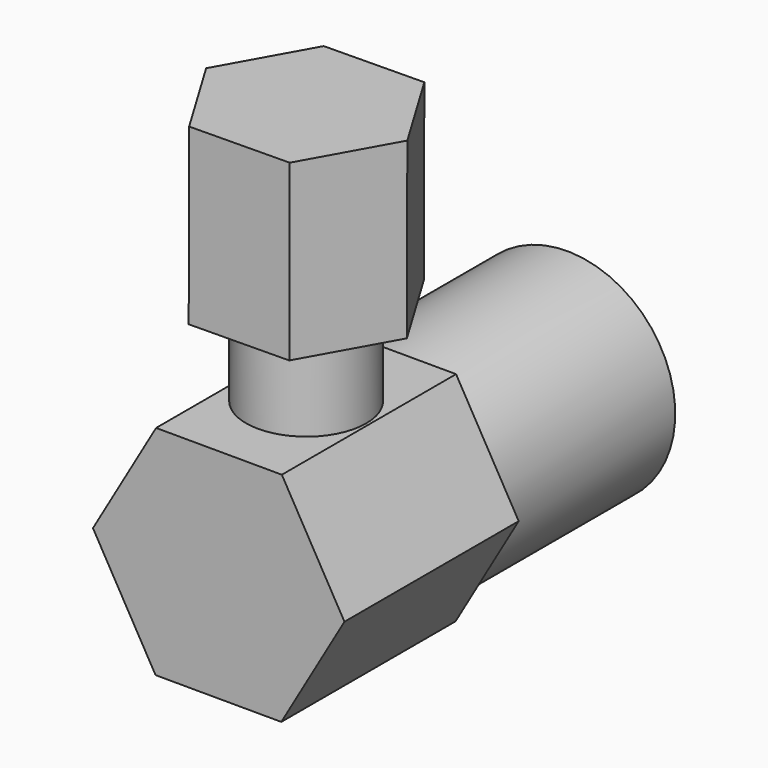
from build123d import *

# Parameters (mm, degrees)
F1_DEPTH = 63.5
F2_R     = 31.5105933146
F3_DEPTH = 63.5
F4_R     = 17.5276637919
F5_DEPTH = 25.4
F7_DEPTH = 50.8


with BuildPart() as f1:
    # F0 (on Front) → F1 (new body)
    with BuildSketch(Plane.XZ):
        Polygon((18.2524688239, -31.795136659), (36.6616304755, -0.0904666463), (18.4091616516, 31.7046700128), (-18.2524688239, 31.795136659), (-36.6616304755, 0.0904666463), (-18.4091616516, -31.7046700128), align=None)
    extrude(amount=F1_DEPTH)

    # F2 (on face) → F3 (join)
    with BuildSketch(Plane(origin=(0, 0, 0), x_dir=(-1, 0, 0), z_dir=(0, 1, 0))):
        Circle(F2_R)
    extrude(amount=F3_DEPTH)

    # F4 (on face) → F5 (join)
    with BuildSketch(Plane(origin=(0.0783464139, 0, 31.7499033359), x_dir=(0.9999969555, 0, -0.0024676036), z_dir=(0.0024676036, 0, 0.9999969555))):
        with Locations((0, -31.75)):
            Circle(F4_R)
    extrude(amount=F5_DEPTH)

    # F6 (on face) → F7 (join)
    with BuildSketch(Plane(origin=(0.141023545, 0, 57.1498260046), x_dir=(0.9999969555, 0, -0.0024676036), z_dir=(0.0024676036, 0, 0.9999969555))):
        Polygon((14.8922465929, -56.5634329038), (28.9351865462, -31.2596525831), (14.0429399534, -6.4462196793), (-14.8922465929, -6.9365670962), (-28.9351865462, -32.2403474169), (-14.0429399534, -57.0537803207), align=None)
    extrude(amount=F7_DEPTH)


solid = f1.part
